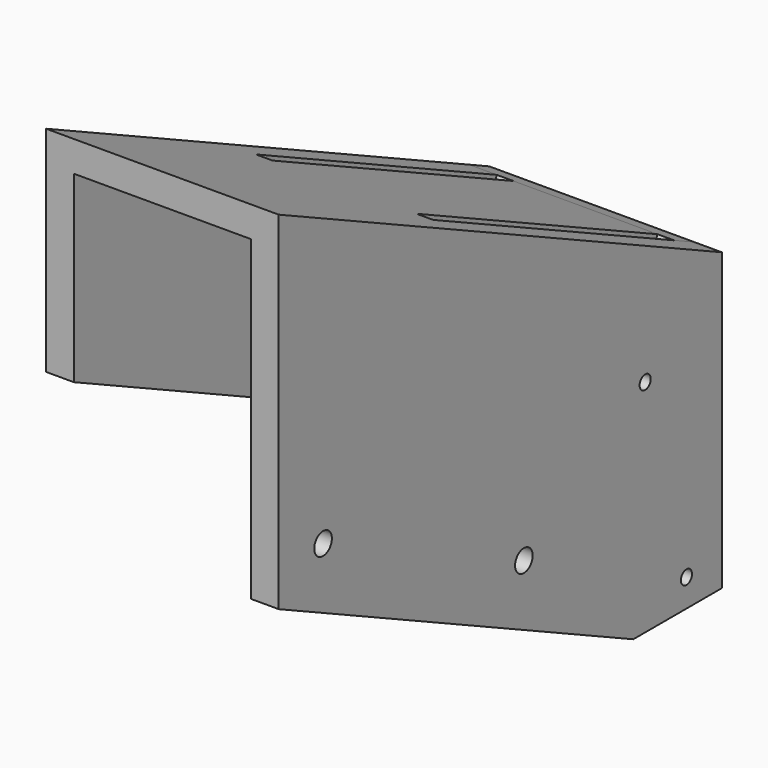
from build123d import *

# Parameters (mm, degrees)
F0_R     = 1.5875
F1_DEPTH = 6.35
F3_DEPTH = 46.99
F4_R     = 1.5875
F5_DEPTH = 6.35
F6_W     = 3.81
F6_H     = 76.2
F7_DEPTH = 6.35
F8_R     = 2.5273
F9_DEPTH = 6.35


with BuildPart() as f1:
    # F0 (on Right) → F1 (new body)
    with BuildSketch(Plane.YZ):
        Polygon((63.5, -63.5), (63.5, 4.2789274143), (-63.5, 63.5), (-63.5, -16.1231419315), (38.1, -63.5), align=None)
        with Locations((53.34, -57.15)):
            Circle(F0_R, mode=Mode.SUBTRACT)
        with Locations((41.5067932579, -12.9878712221)):
            Circle(F0_R, mode=Mode.SUBTRACT)
    extrude(amount=F1_DEPTH)

    # F2 (on face) → F3 (join)
    with BuildSketch(Plane(origin=(0, 0, 0), x_dir=(0, -1, 0), z_dir=(-1, 0, 0))):
        Polygon((11.7045099709, 32.3409165561), (63.5, 56.4935502146), (63.5, 63.5), (9.0208840088, 38.0959710038), align=None)
        Polygon((-63.5, -2.7275223711), (-55.0613195903, 1.2074989287), (-57.7449455523, 6.9625533764), (-63.5, 4.2789274143), align=None)
        Polygon((-55.0613195903, 1.2074989287), (11.7045099709, 32.3409165561), (9.0208840088, 38.0959710038), (-57.7449455523, 6.9625533764), align=None)
    extrude(amount=F3_DEPTH)

    # F4 (on face) → F5 (join)
    with BuildSketch(Plane(origin=(-46.99, 0, 0), x_dir=(0, -1, 0), z_dir=(-1, 0, 0))):
        Polygon((63.5, 63.5), (-63.5, 4.2789274143), (-63.5, -21.1210725857), (-12.7, -21.1210725857), (63.5, 14.4115709657), align=None)
        with Locations((-41.5067932579, -12.9878712221)):
            Circle(F4_R, mode=Mode.SUBTRACT)
    extrude(amount=-F5_DEPTH)

    # F6 (on face) → F7 (cut, through all)
    with BuildSketch(Plane(origin=(0, 12.9804176766, 27.8365955385), x_dir=(1, 0, 0), z_dir=(0, 0.4226182617, 0.906307787))):
        with Locations((-1.905, 11.2921916109)):
            Rectangle(F6_W, F6_H)
        with Locations((-38.735, 11.2921916109)):
            Rectangle(F6_W, F6_H)
    extrude(amount=-F7_DEPTH, mode=Mode.SUBTRACT)

    # F8 (on face) → F9 (cut, through all)
    with BuildSketch(Plane.YZ.offset(6.35)):
        with Locations((-50.8, -8.0323496192)):
            Circle(F8_R)
        with Locations((6.7505444768, -34.8686092397)):
            Circle(F8_R)
    extrude(amount=-F9_DEPTH, mode=Mode.SUBTRACT)


solid = f1.part
